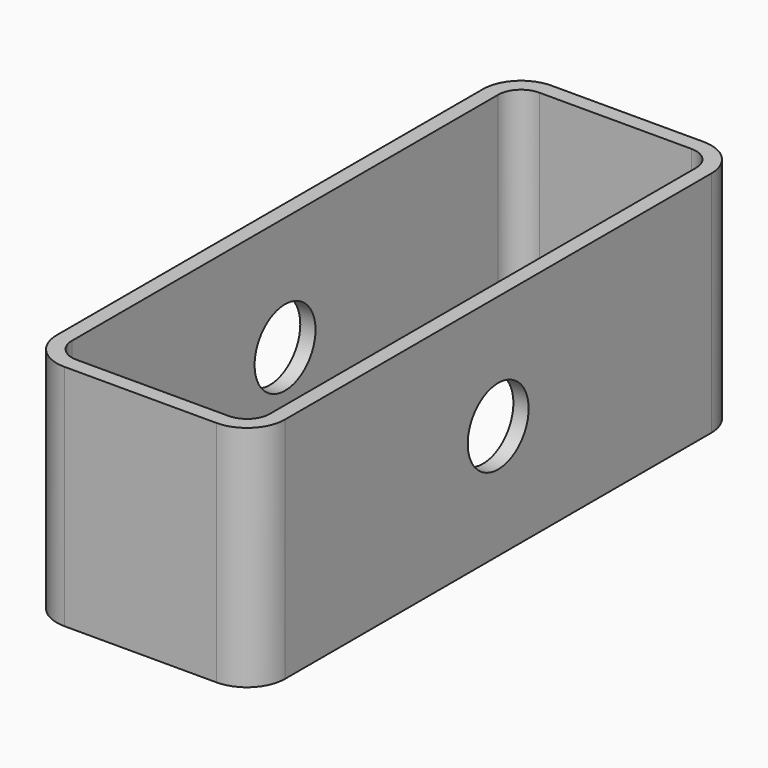
from build123d import *

# Parameters (mm, degrees)
F0_W     = 30
F0_H     = 80
F1_DEPTH = 30
F2_R     = 5
F4_DEPTH = 30
F5_R     = 5
F6_DEPTH = 30


with BuildPart() as f1:
    # F0 (on Top) → F1 (new body)
    with BuildSketch(Plane.XY):
        Rectangle(F0_W, F0_H)
    extrude(amount=F1_DEPTH)

    # F2
    f2_edges = [f1.edges().sort_by_distance(p)[0] for p in [
        (15, 40, 15),
        (-15, 40, 15),
        (-15, -40, 15),
        (15, -40, 15),
    ]]
    fillet(f2_edges, radius=F2_R)

    # F3 (on face) → F4 (cut)
    with BuildSketch(Plane.XY.offset(30)):
        with BuildLine():
            ThreePointArc((13, 35), (12.12132, 37.12132), (10, 38))
            Line((10, 38), (-10, 38))
            ThreePointArc((-10, 38), (-12.12132, 37.12132), (-13, 35))
            Line((-13, 35), (-13, -35))
            ThreePointArc((-13, -35), (-12.12132, -37.12132), (-10, -38))
            Line((-10, -38), (10, -38))
            ThreePointArc((10, -38), (12.12132, -37.12132), (13, -35))
            Line((13, -35), (13, 35))
        make_face()
    extrude(amount=-F4_DEPTH, mode=Mode.SUBTRACT)

    # F5 (on face) → F6 (cut)
    with BuildSketch(Plane.YZ.offset(15)):
        with Locations((0, 15)):
            Circle(F5_R)
    extrude(amount=-F6_DEPTH, mode=Mode.SUBTRACT)


solid = f1.part
